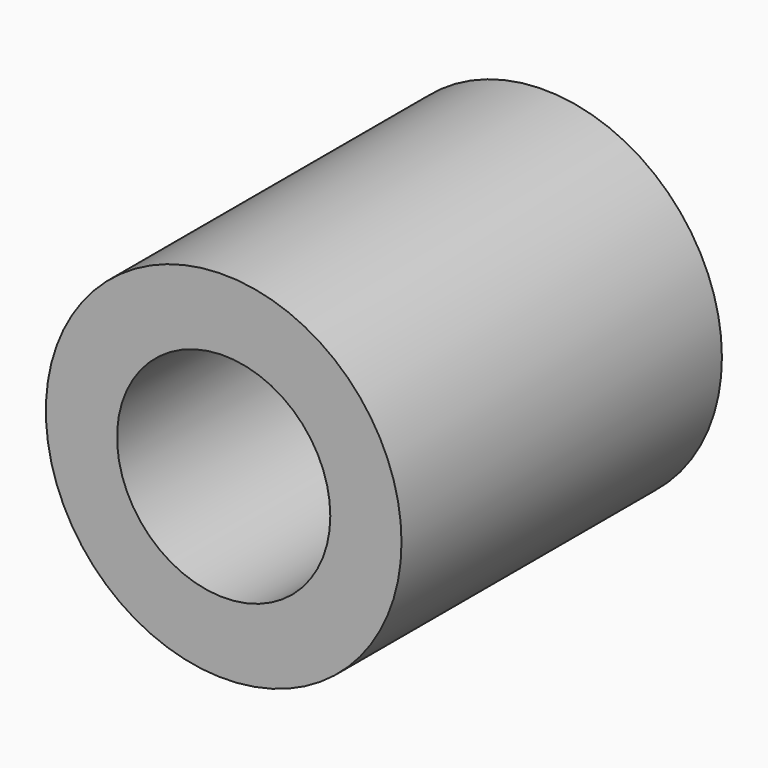
from build123d import *

# Parameters (mm, degrees)
F0_R     = 12.6873
F0_R_2   = 7.6073
F0_R_3   = 5.55625
F1_DEPTH = 28.575
F2_R     = 7.6073
F3_DEPTH = 22.225
F4_R     = 5.55625
F5_DEPTH = 6.351


with BuildPart() as f1:
    # F0 (on Front) → F1 (new body)
    with BuildSketch(Plane.XZ):
        Circle(F0_R)
        Circle(F0_R_2, mode=Mode.SUBTRACT)
        Circle(F0_R_3)
        Circle(F0_R_2)
        Circle(F0_R_3, mode=Mode.SUBTRACT)
    extrude(amount=F1_DEPTH)

    # F2 (on face) → F3 (cut)
    with BuildSketch(Plane.XZ.offset(28.575)):
        Circle(F2_R)
    extrude(amount=-F3_DEPTH, mode=Mode.SUBTRACT)

    # F4 (on face) → F5 (cut, through all)
    with BuildSketch(Plane.XZ.offset(6.35)):
        Circle(F4_R)
    extrude(amount=-F5_DEPTH, mode=Mode.SUBTRACT)


solid = f1.part
